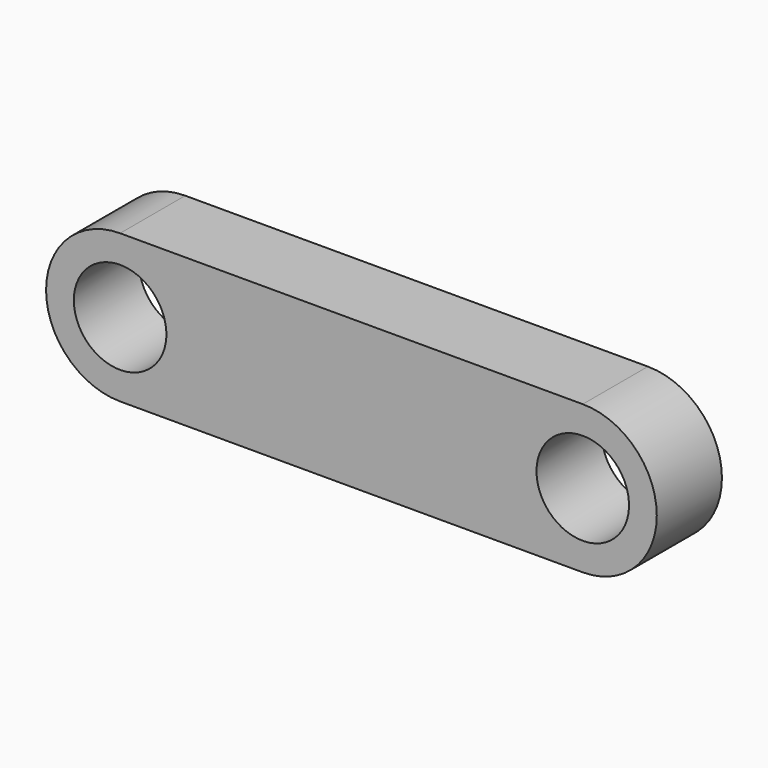
from build123d import *

# Parameters (mm, degrees)
F1_DEPTH = 223.52
F2_R     = 127
F3_DEPTH = 833.12


with BuildPart() as f1:
    # F0 (on Front) → F1 (new body)
    with BuildSketch(Plane.XZ):
        with BuildLine():
            Line((635, 203.2), (-635, 203.2))
            ThreePointArc((-635, 203.2), (-838.2, 0), (-635, -203.2))
            Line((-635, -203.2), (635, -203.2))
            ThreePointArc((635, -203.2), (838.2, 0), (635, 203.2))
        make_face()
    extrude(amount=-F1_DEPTH)

    # F2 (on face) → F3 (cut)
    with BuildSketch(Plane(origin=(0, 223.52, 0), x_dir=(-1, 0, 0), z_dir=(0, 1, 0))):
        with Locations((-635, 0)):
            Circle(F2_R)
        with Locations((635, 0)):
            Circle(F2_R)
    extrude(amount=-F3_DEPTH, mode=Mode.SUBTRACT)


solid = f1.part
